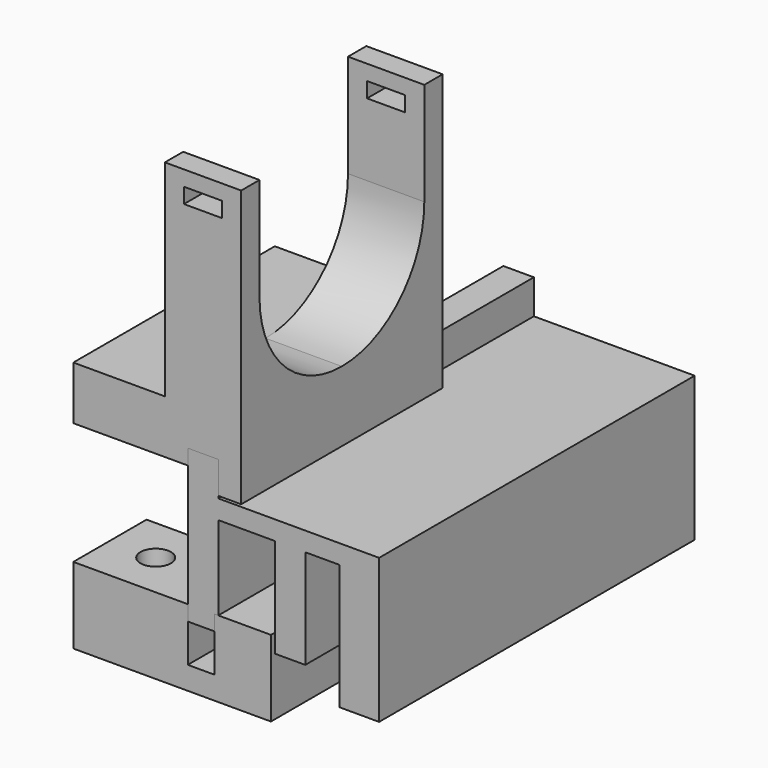
from build123d import *

# Parameters (mm, degrees)
F1_DEPTH  = 51.69827
F3_DEPTH  = 33
F4_DEPTH  = 12
F5_R      = 2
F6_DEPTH  = 10.001
F7_R      = 2
F8_DEPTH  = 33.001
F7_R_2    = 3.5
F9_DEPTH  = 10
F11_DEPTH = 28.078453
F12_W     = 5
F12_H     = 2
F13_DEPTH = 51.69927
F14_W     = 10.5
F14_H     = 6
F15_DEPTH = 15


with BuildPart() as f1:
    # F0 (on Front) → F1 (new body)
    with BuildSketch(Plane.XZ):
        Polygon((0, -13), (0, 0), (7.4, 0), (7.4, -13), (11.4, -13), (11.4, 0), (15.9, 0), (15.9, -16.432262), (21.077453, -16.432262), (21.077453, 2.5), (0, 2.5), (0, 7), (-4, 7), (-4, -13), align=None)
    extrude(amount=-F1_DEPTH)


with BuildPart() as f3:
    # F2 (on Front) → F3 (new body)
    with BuildSketch(Plane.XZ):
        Polygon((-4, -1), (-4, 7), (0, 7), (0, 2.8), (3, 2.8), (3, 39), (-7, 39), (-7, 12), (-19, 12), (-19, -1), align=None)
    extrude(amount=-F3_DEPTH)

    # F7 (on face) → F8 (cut, through all)
    with BuildSketch(Plane.XY.offset(12)):
        with Locations((-13, 16.5)):
            Circle(F7_R)
    extrude(amount=-F8_DEPTH, mode=Mode.SUBTRACT)

    # F7 (on face) → F9 (cut)
    with BuildSketch(Plane.XY.offset(12)):
        with Locations((-13, 16.5)):
            Circle(F7_R_2)
        with Locations((-13, 16.5)):
            Circle(F7_R, mode=Mode.SUBTRACT)
    extrude(amount=-F9_DEPTH, mode=Mode.SUBTRACT)

    # F10 (on face) → F11 (cut, through all)
    with BuildSketch(Plane(origin=(-7, 0, 0), x_dir=(0, -1, 0), z_dir=(-1, 0, 0))):
        with BuildLine():
            Line((-3, 39), (-30, 39))
            Line((-30, 39), (-30, 25.5))
            ThreePointArc((-30, 25.5), (-26.045942, 15.954058), (-16.5, 12))
            ThreePointArc((-16.5, 12), (-6.954058, 15.954058), (-3, 25.5))
            Line((-3, 25.5), (-3, 39))
        make_face()
    extrude(amount=-F11_DEPTH, mode=Mode.SUBTRACT)

    # F12 (on face) → F13 (cut, through all)
    with BuildSketch(Plane.XZ):
        with Locations((-2, 36)):
            Rectangle(F12_W, F12_H)
    extrude(amount=-F13_DEPTH, mode=Mode.SUBTRACT)

    # F14 (on face) → F15 (cut, through all)
    with BuildSketch(Plane(origin=(-19, 0, 0), x_dir=(0, -1, 0), z_dir=(-1, 0, 0))):
        with Locations((-27.75, 2)):
            Rectangle(F14_W, F14_H)
        with Locations((-5.25, 2)):
            Rectangle(F14_W, F14_H)
    extrude(amount=-F15_DEPTH, mode=Mode.SUBTRACT)


with BuildPart() as f4:
    # F2 (on Front) → F4 (new body)
    with BuildSketch(Plane.XZ):
        Polygon((-0.5, -11), (-0.5, -18), (-4, -18), (-4, -11), (-19, -11), (-19, -21), (6.9, -21), (6.9, -11), align=None)
    extrude(amount=-F4_DEPTH)

    # F5 (on face) → F6 (cut, through all)
    with BuildSketch(Plane.XY.offset(-11)):
        with Locations((-13, 6)):
            Circle(F5_R)
    extrude(amount=-F6_DEPTH, mode=Mode.SUBTRACT)


solid = Compound([f1.part, f3.part, f4.part])
